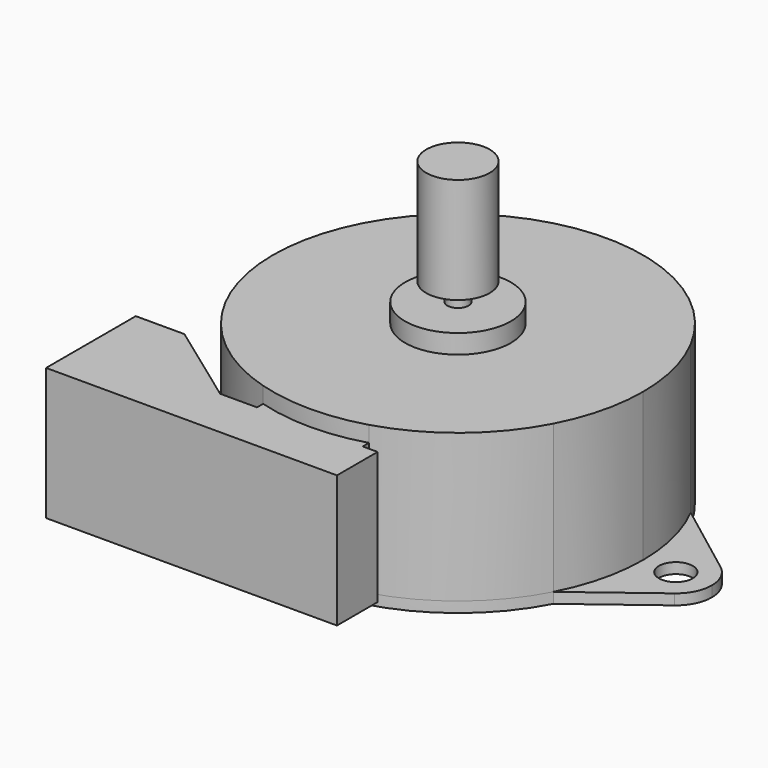
from build123d import *

# Parameters (mm, degrees)
F0_R      = 1.6
F1_DEPTH  = 1
F3_DEPTH  = 14
F2_W      = 1.4
F2_H      = 4.8
F4_DEPTH  = 12.5
F5_R      = 5
F6_DEPTH  = 1.8
F7_R      = 1
F8_DEPTH  = 1.7
F9_R      = 3
F10_DEPTH = 10
F11_W     = 4.6
F11_H     = 10.5
F12_DEPTH = 5


with BuildPart() as f1:
    # F0 (on Top) → F1 (new body)
    with BuildSketch(Plane.XY):
        with BuildLine():
            Line((15.5043796111, -8.1156769819), (15.5043796111, 8.1156769819))
            ThreePointArc((15.5043796111, 8.1156769819), (0, 17.5), (-15.5043796111, 8.1156769819))
            Line((-15.5043796111, 8.1156769819), (-15.5043796111, -8.1156769819))
            ThreePointArc((-15.5043796111, -8.1156769819), (0, -17.5), (15.5043796111, -8.1156769819))
        make_face()
        with BuildLine():
            Line((22.650669435, 2.7119651303), (15.5043796111, 8.1156769819))
            ThreePointArc((15.5043796111, 8.1156769819), (16.8286129371, 4.8008110372), (17.4526699029, 1.2862010962))
            ThreePointArc((17.4526699029, 1.2862010962), (19.700629708, 3.2788920504), (22.650669435, 2.7119651303))
        make_face()
        with BuildLine():
            ThreePointArc((17.4526699029, 1.2862010962), (16.8286129371, 4.8008110372), (15.5043796111, 8.1156769819))
            Line((15.5043796111, 8.1156769819), (15.5043796111, -8.1156769819))
            ThreePointArc((15.5043796111, -8.1156769819), (16.8286129371, -4.8008110372), (17.4526699029, -1.2862010962))
            ThreePointArc((17.4526699029, -1.2862010962), (17.2, 0), (17.4526699029, 1.2862010962))
        make_face()
        with BuildLine():
            Line((-15.5043796111, -8.1156769819), (-15.5043796111, 8.1156769819))
            ThreePointArc((-15.5043796111, 8.1156769819), (-16.8286129371, 4.8008110372), (-17.4526699029, 1.2862010962))
            ThreePointArc((-17.4526699029, 1.2862010962), (-17.2637654212, 0.655392123), (-17.2, 0))
            ThreePointArc((-17.2, 0), (-17.2637654212, -0.655392123), (-17.4526699029, -1.2862010962))
            ThreePointArc((-17.4526699029, -1.2862010962), (-16.8286129371, -4.8008110372), (-15.5043796111, -8.1156769819))
        make_face()
        with BuildLine():
            ThreePointArc((-17.4526699029, 1.2862010962), (-16.8286129371, 4.8008110372), (-15.5043796111, 8.1156769819))
            Line((-15.5043796111, 8.1156769819), (-22.650669435, 2.7119651303))
            ThreePointArc((-22.650669435, 2.7119651303), (-19.700629708, 3.2788920504), (-17.4526699029, 1.2862010962))
        make_face()
        with BuildLine():
            ThreePointArc((22.650669435, 2.7119651303), (19.700629708, 3.2788920504), (17.4526699029, 1.2862010962))
            ThreePointArc((17.4526699029, 1.2862010962), (17.4881634728, 0.6435358184), (17.5, 0))
            ThreePointArc((17.5, 0), (17.4881634728, -0.6435358184), (17.4526699029, -1.2862010962))
            ThreePointArc((17.4526699029, -1.2862010962), (19.700629708, -3.2788920504), (22.650669435, -2.7119651303))
            Line((22.650669435, -2.7119651303), (22.650669435, 2.7119651303))
        make_face()
        with Locations((20.6, 0)):
            Circle(F0_R, mode=Mode.SUBTRACT)
        with BuildLine():
            ThreePointArc((17.4526699029, -1.2862010962), (16.8286129371, -4.8008110372), (15.5043796111, -8.1156769819))
            Line((15.5043796111, -8.1156769819), (22.650669435, -2.7119651303))
            ThreePointArc((22.650669435, -2.7119651303), (19.700629708, -3.2788920504), (17.4526699029, -1.2862010962))
        make_face()
        with BuildLine():
            ThreePointArc((24, 0), (23.6440331863, 1.5145500851), (22.650669435, 2.7119651303))
            Line((22.650669435, 2.7119651303), (22.650669435, -2.7119651303))
            ThreePointArc((22.650669435, -2.7119651303), (23.6440331863, -1.5145500851), (24, 0))
        make_face()
        with BuildLine():
            ThreePointArc((-17.4526699029, -1.2862010962), (-17.5, 0), (-17.4526699029, 1.2862010962))
            ThreePointArc((-17.4526699029, 1.2862010962), (-19.700629708, 3.2788920504), (-22.650669435, 2.7119651303))
            Line((-22.650669435, 2.7119651303), (-22.650669435, -2.7119651303))
            ThreePointArc((-22.650669435, -2.7119651303), (-19.700629708, -3.2788920504), (-17.4526699029, -1.2862010962))
        make_face()
        with Locations((-20.6, 0)):
            Circle(F0_R, mode=Mode.SUBTRACT)
        with BuildLine():
            Line((-22.650669435, -2.7119651303), (-22.650669435, 2.7119651303))
            ThreePointArc((-22.650669435, 2.7119651303), (-24, 0), (-22.650669435, -2.7119651303))
        make_face()
        with BuildLine():
            Line((-22.650669435, -2.7119651303), (-15.5043796111, -8.1156769819))
            ThreePointArc((-15.5043796111, -8.1156769819), (-16.8286129371, -4.8008110372), (-17.4526699029, -1.2862010962))
            ThreePointArc((-17.4526699029, -1.2862010962), (-19.700629708, -3.2788920504), (-22.650669435, -2.7119651303))
        make_face()
        with BuildLine():
            ThreePointArc((-17.2, 0), (-17.2637654212, 0.655392123), (-17.4526699029, 1.2862010962))
            ThreePointArc((-17.4526699029, 1.2862010962), (-17.5, 0), (-17.4526699029, -1.2862010962))
            ThreePointArc((-17.4526699029, -1.2862010962), (-17.2637654212, -0.655392123), (-17.2, 0))
        make_face()
        with BuildLine():
            ThreePointArc((17.5, 0), (17.4881634728, 0.6435358184), (17.4526699029, 1.2862010962))
            ThreePointArc((17.4526699029, 1.2862010962), (17.2, 0), (17.4526699029, -1.2862010962))
            ThreePointArc((17.4526699029, -1.2862010962), (17.4881634728, -0.6435358184), (17.5, 0))
        make_face()
    extrude(amount=F1_DEPTH)

    # F2 (on face) → F3 (join)
    with BuildSketch(Plane.XY.offset(1)):
        with BuildLine():
            ThreePointArc((15.5043796111, -8.1156769819), (16.9937730242, -4.1787173155), (17.5, 0))
            ThreePointArc((17.5, 0), (16.9937730242, 4.1787173155), (15.5043796111, 8.1156769819))
            ThreePointArc((15.5043796111, 8.1156769819), (0, 17.5), (-15.5043796111, 8.1156769819))
            ThreePointArc((-15.5043796111, 8.1156769819), (-17.5, 0), (-15.5043796111, -8.1156769819))
            ThreePointArc((-15.5043796111, -8.1156769819), (-11.1280694067, -13.5061493875), (-5, -16.7705098312))
            Line((-5, -16.7705098312), (-5, 0))
            Line((-5, 0), (5, 0))
            Line((5, 0), (5, -16.7705098312))
            ThreePointArc((5, -16.7705098312), (11.1280694067, -13.5061493875), (15.5043796111, -8.1156769819))
        make_face()
        with BuildLine():
            ThreePointArc((-5.71e-08, -17.5), (2.5264676594, -17.3166671495), (5, -16.7705098312))
            Line((5, -16.7705098312), (5, 0))
            Line((5, 0), (-5, 0))
            Line((-5, 0), (-5, -16.7705098312))
            ThreePointArc((-5, -16.7705098312), (-2.5264677159, -17.3166671412), (-5.71e-08, -17.5))
        make_face()
    extrude(amount=F3_DEPTH)

    # F2 (on face) → F4 (join)
    with BuildSketch(Plane.XY.offset(1)):
        with BuildLine():
            ThreePointArc((5, -16.7705098312), (14.0312152004, -10.4582503317), (17.5, 0))
            ThreePointArc((17.5, 0), (-10.4582503317, 14.0312152004), (-5, -16.7705098312))
            Line((-5, -16.7705098312), (-5, 0))
            Line((-5, 0), (5, 0))
            Line((5, 0), (5, -16.7705098312))
        make_face()
        with BuildLine():
            Line((-5, 0), (-5, -16.7705098312))
            ThreePointArc((-5, -16.7705098312), (-2.5264677035, -17.316667143), (-3.21e-08, -17.5))
            ThreePointArc((-3.21e-08, -17.5), (2.5264676717, -17.3166671477), (5, -16.7705098312))
            Line((5, -16.7705098312), (5, 0))
            Line((5, 0), (-5, 0))
        make_face()
        with BuildLine():
            ThreePointArc((-3.21e-08, -17.5), (-2.5264677035, -17.316667143), (-5, -16.7705098312))
            Line((-5, -16.7705098312), (-5, -17.5))
            Line((-5, -17.5), (-3.21e-08, -17.5))
        make_face()
        with BuildLine():
            Line((5, -17.5), (5, -16.7705098312))
            ThreePointArc((5, -16.7705098312), (2.5264676717, -17.3166671477), (-3.21e-08, -17.5))
            Line((-3.21e-08, -17.5), (5, -17.5))
        make_face()
        Polygon((5, -17.5), (-3.21e-08, -17.5), (-5, -17.5), (-5, -22.3), (5, -22.3), align=None)
        Polygon((-5, -22.3), (-5, -17.5), (-8.4841037169, -17.5), (-21.1, -17.5), (-21.1, -22.3), align=None)
        with Locations((5.7, -19.9)):
            Rectangle(F2_W, F2_H)
        Polygon((-21.1, -17.5), (-8.4841037169, -17.5), (-16.5028385818, -11.7), (-21.1, -11.7), align=None)
    extrude(amount=F4_DEPTH)

    # F5 (on face) → F6 (join)
    with BuildSketch(Plane.XY.offset(15)):
        Circle(F5_R)
    extrude(amount=F6_DEPTH)

    # F7 (on face) → F8 (join)
    with BuildSketch(Plane.XY.offset(16.8)):
        Circle(F7_R)
    extrude(amount=F8_DEPTH)

    # F9 (on face) → F10 (join)
    with BuildSketch(Plane.XY.offset(18.5)):
        Circle(F9_R)
    extrude(amount=F10_DEPTH)

    # F11 (on face) → F12 (cut)
    with BuildSketch(Plane(origin=(-21.1, 0, 0), x_dir=(0, -1, 0), z_dir=(-1, 0, 0))):
        with Locations((15, 7.25)):
            Rectangle(F11_W, F11_H)
    extrude(amount=-F12_DEPTH, mode=Mode.SUBTRACT)


solid = f1.part
